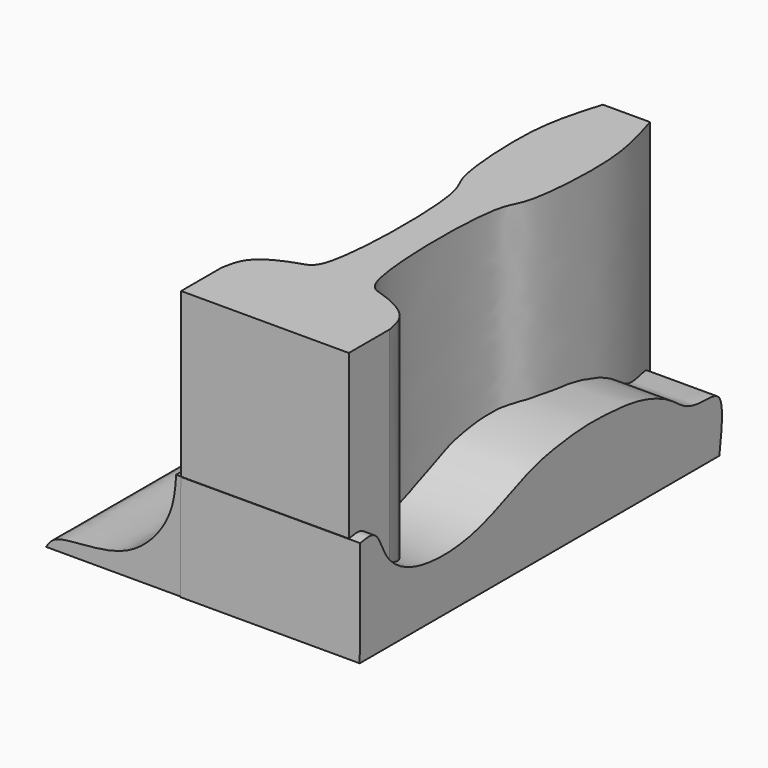
from build123d import *

# Parameters (mm, degrees)
F1_DEPTH = 250
F3_DEPTH = 200
F5_DEPTH = 300


with BuildPart() as f1:
    # F0 (on Front) → F1 (new body, symmetric)
    with BuildSketch(Plane.XZ):
        with BuildLine():
            Line((-150.4303067923, 0), (0, 0))
            Line((0, 0), (0, 4.9730219221))
            ThreePointArc((0, 4.9730219221), (-26.0745104128, 31.0475323349), (0, 57.1220427477))
            Line((0, 57.1220427477), (0, 117.9806217551))
            Line((0, 117.9806217551), (-5.4082828574, 117.9806217551))
            add(Edge.make_bspline(
                [(-150.4303067923, 0), (-147.6800431157, 4.4285480102), (-139.2045503248, 18.0760128164), (-58.871298674, 11.2324562302), (-8.6881816648, 71.2439553349), (-6.4119653962, 103.6787244211), (-5.4082828574, 117.9806217551)],
                knots=[0, 0, 0, 0, 0.147422717, 0.4543128668, 0.7593828606, 1, 1, 1, 1], degree=3))
        make_face()
        with BuildLine():
            Line((0, 57.1220427477), (0, 4.9730219221))
            ThreePointArc((0, 4.9730219221), (18.437463129, 12.6100692059), (26.0745104128, 31.0475323349))
            ThreePointArc((26.0745104128, 31.0475323349), (18.437463129, 49.4849954639), (0, 57.1220427477))
        make_face()
        with BuildLine():
            Line((0, 4.9730219221), (0, 0))
            Line((0, 0), (150.4303067923, 0))
            add(Edge.make_bspline(
                [(150.4303067923, 0), (147.6800431157, 4.4285480102), (139.2045503248, 18.0760128164), (58.871298674, 11.2324562302), (8.6881816648, 71.2439553349), (6.4119653962, 103.6787244211), (5.4082828574, 117.9806217551)],
                knots=[0, 0, 0, 0, 0.147422717, 0.4543128668, 0.7593828606, 1, 1, 1, 1], degree=3))
            Line((5.4082828574, 117.9806217551), (0, 117.9806217551))
            Line((0, 117.9806217551), (0, 57.1220427477))
            ThreePointArc((0, 57.1220427477), (18.437463129, 49.4849954639), (26.0745104128, 31.0475323349))
            ThreePointArc((26.0745104128, 31.0475323349), (18.437463129, 12.6100692059), (0, 4.9730219221))
        make_face()
        with BuildLine():
            ThreePointArc((0, 57.1220427477), (-26.0745104128, 31.0475323349), (0, 4.9730219221))
            Line((0, 4.9730219221), (0, 57.1220427477))
        make_face()
    extrude(amount=F1_DEPTH, both=True)


with BuildPart() as f3:
    # F2 (on Right) → F3 (new body)
    with BuildSketch(Plane.YZ):
        with BuildLine():
            add(Edge.make_bspline(
                [(-250.2999603748, 117.7272200584), (-243.397510599, 119.0616262845), (-225.658512766, 122.4913788281), (-216.8313513101, 86.241636899), (-176.0209856598, 57.6644847038), (-92.3172913309, 56.0409334649), (-21.0031842205, 92.4544835435), (21.2974596646, 101.2064118587), (63.4202562469, 106.125023955), (101.9054094677, 104.2756258407), (138.3709094524, 101.1670896025), (180.8752810882, 85.9213967842), (203.2015801651, 64.0794723607), (230.9681511067, 62.2143314741), (258.7087504334, 62.2126408225), (253.2418524467, 21.9027323981), (250.2590417862, 0)],
                knots=[0, 0, 0, 0, 0.0504684743, 0.1122777964, 0.1886106362, 0.2899224579, 0.3898805076, 0.4630495693, 0.5349931675, 0.6041562026, 0.6723037764, 0.7467383335, 0.8083456452, 0.8665477344, 0.915697575, 1, 1, 1, 1], degree=3))
            Line((-250.2999603748, 117.7272200584), (-250.9351968765, 0))
            Line((-250.9351968765, 0), (250.2590417862, 0))
        make_face()
    extrude(amount=F3_DEPTH)


with BuildPart() as f5:
    # F4 (on Top) → F5 (new body)
    with BuildSketch(Plane.XY):
        with BuildLine():
            Line((0, -193.2104080915), (0, -249.8561441898))
            Line((0, -249.8561441898), (187.0169639587, -249.8561441898))
            Line((187.0169639587, -249.8561441898), (187.0169639587, -193.2104080915))
            add(Edge.make_bspline(
                [(187.0169639587, -193.2104080915), (185.2920677151, -183.5609691461), (181.5317268611, -162.5248171939), (140.2069760117, -143.871640491), (111.6500632792, -140.4102234549), (110.4873267519, 47.8113764806), (132.628694908, 65.2589468599), (139.116461941, 154.4028903421), (133.8023842855, 207.0114768239), (124.3243606701, 238.7591835481), (119.8082864285, 253.886282444)],
                knots=[0, 0, 0, 0, 0.0919226667, 0.2003949862, 0.281979246, 0.5041280253, 0.6021136527, 0.7553038342, 0.883407544, 1, 1, 1, 1], degree=3))
            Line((119.8082864285, 253.886282444), (93.5084819794, 253.886282444))
            Line((93.5084819794, 253.886282444), (67.2086775303, 253.886282444))
            add(Edge.make_bspline(
                [(0, -193.2104080915), (1.7248962437, -183.5609691461), (5.4852370976, -162.5248171939), (46.8099879471, -143.871640491), (75.3669006796, -140.4102234549), (76.5296372068, 47.8113764806), (54.3882690507, 65.2589468599), (47.9005020177, 154.4028903421), (53.2145796732, 207.0114768239), (62.6926032886, 238.7591835481), (67.2086775303, 253.886282444)],
                knots=[0, 0, 0, 0, 0.0919226667, 0.2003949862, 0.281979246, 0.5041280253, 0.6021136527, 0.7553038342, 0.883407544, 1, 1, 1, 1], degree=3))
        make_face()
    extrude(amount=F5_DEPTH)


solid = Compound([f1.part, f3.part, f5.part])
